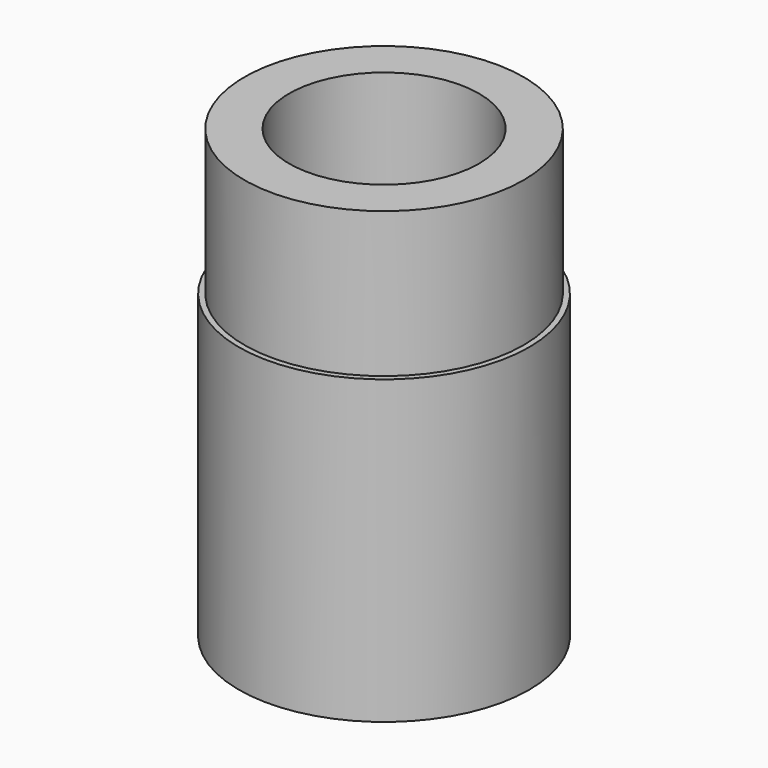
from build123d import *

# Parameters (mm, degrees)
F0_R        = 12.5
F0_R_2      = 8.5
F1_DEPTH    = 13
F0_R_3      = 13
F1_FACE_R   = 12.5
F1_FACE_R_2 = 8.5
F2_DEPTH    = 27


with BuildPart() as f1:
    # F0 (on Top) → F1 (new body)
    with BuildSketch(Plane.XY):
        Circle(F0_R)
        Circle(F0_R_2, mode=Mode.SUBTRACT)
    extrude(amount=F1_DEPTH)

    # F0 (on Top) + F1_face (on face) → F2 (join)
    with BuildSketch(Plane.XY):
        Circle(F0_R_3)
        Circle(F0_R, mode=Mode.SUBTRACT)
    with BuildSketch(Plane(origin=(0, 0, 0), x_dir=(1, 0, 0), z_dir=(0, 0, -1))):
        Circle(F1_FACE_R)
        Circle(F1_FACE_R_2, mode=Mode.SUBTRACT)
    extrude(amount=-F2_DEPTH, dir=(0, 0, 1))


solid = f1.part
